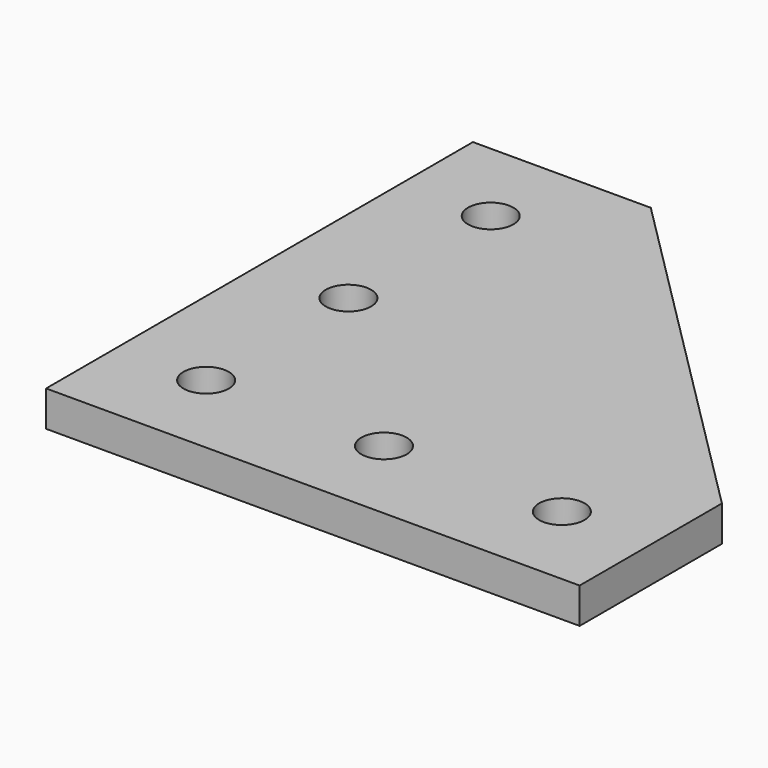
from build123d import *

# Parameters (mm, degrees)
SKETCH_R  = 2.55
PAD_DEPTH = 4


with BuildPart() as part:
    # Sketch → Pad (new body)
    with BuildSketch(Plane.XY):
        Polygon((0, 0), (0, 60), (20, 60), (60, 20), (60, 0), align=None)
        with Locations((10, 10)):
            Circle(SKETCH_R, mode=Mode.SUBTRACT)
        with Locations((30, 10)):
            Circle(SKETCH_R, mode=Mode.SUBTRACT)
        with Locations((50, 10)):
            Circle(SKETCH_R, mode=Mode.SUBTRACT)
        with Locations((10, 30)):
            Circle(SKETCH_R, mode=Mode.SUBTRACT)
        with Locations((10, 50)):
            Circle(SKETCH_R, mode=Mode.SUBTRACT)
    extrude(amount=PAD_DEPTH)


solid = part.part
